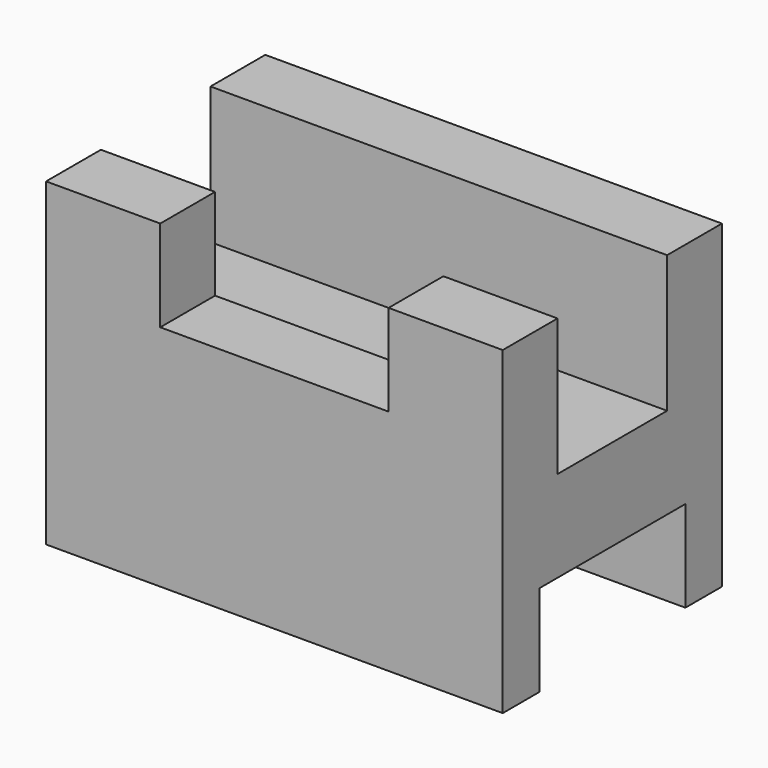
from build123d import *

# Parameters (mm, degrees)
F0_W     = 63.5
F0_H     = 44.45
F1_DEPTH = 38.1
F2_W     = 63.5
F2_H     = 19.05
F3_DEPTH = 19.05
F4_W     = 63.5
F4_H     = 25.4
F5_DEPTH = 12.7
F6_W     = 31.75
F6_H     = 9.525
F7_DEPTH = 12.7


with BuildPart() as f1:
    # F0 (on Front) → F1 (new body)
    with BuildSketch(Plane.XZ):
        Rectangle(F0_W, F0_H)
    extrude(amount=F1_DEPTH)

    # F2 (on face) → F3 (cut)
    with BuildSketch(Plane.XY.offset(22.225)):
        with Locations((0, -19.05)):
            Rectangle(F2_W, F2_H)
    extrude(amount=-F3_DEPTH, mode=Mode.SUBTRACT)

    # F4 (on face) → F5 (cut)
    with BuildSketch(Plane(origin=(0, 0, -22.225), x_dir=(1, 0, 0), z_dir=(0, 0, -1))):
        with Locations((0, 19.05)):
            Rectangle(F4_W, F4_H)
    extrude(amount=-F5_DEPTH, mode=Mode.SUBTRACT)

    # F6 (on face) → F7 (cut)
    with BuildSketch(Plane.XY.offset(22.225)):
        with Locations((0, -33.3375)):
            Rectangle(F6_W, F6_H)
    extrude(amount=-F7_DEPTH, mode=Mode.SUBTRACT)


solid = f1.part
